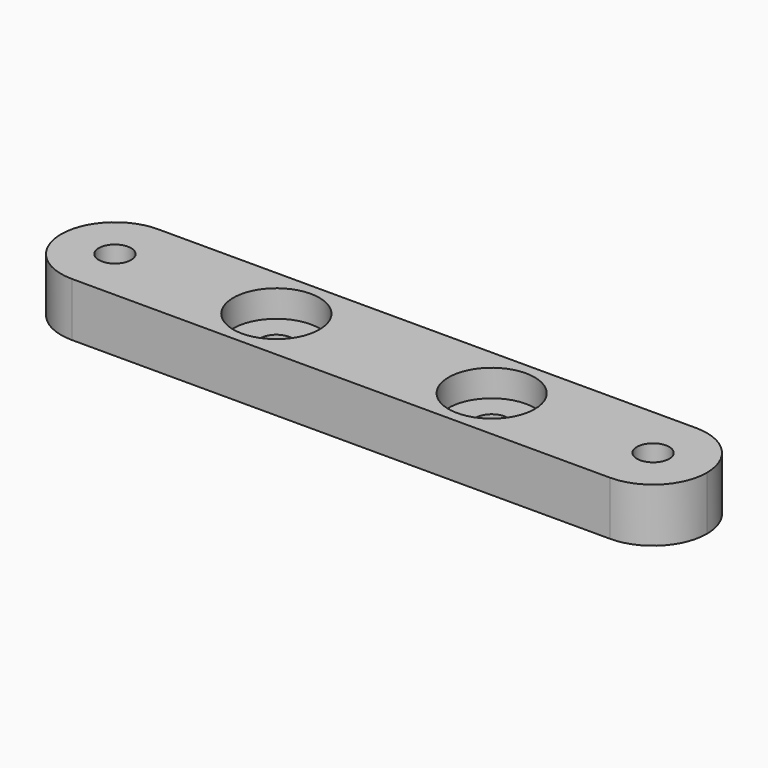
from build123d import *

# Parameters (mm, degrees)
F0_R     = 1.905
F1_DEPTH = 6.35
F2_R     = 5.08
F2_R_2   = 1.905
F3_DEPTH = 3.175


with BuildPart() as f1:
    # F0 (on Top) → F1 (new body)
    with BuildSketch(Plane.XY):
        with BuildLine():
            Line((-31.75, -6.35), (31.75, -6.35))
            ThreePointArc((31.75, -6.35), (36.240128, -4.490128), (38.1, 0))
            ThreePointArc((38.1, 0), (36.240128, 4.490128), (31.75, 6.35))
            Line((31.75, 6.35), (-31.75, 6.35))
            ThreePointArc((-31.75, 6.35), (-36.240128, 4.490128), (-38.1, 0))
            ThreePointArc((-38.1, 0), (-36.240128, -4.490128), (-31.75, -6.35))
        make_face()
        with Locations((-31.75, 0)):
            Circle(F0_R, mode=Mode.SUBTRACT)
        with Locations((-12.7, 0)):
            Circle(F0_R, mode=Mode.SUBTRACT)
        with Locations((12.7, 0)):
            Circle(F0_R, mode=Mode.SUBTRACT)
        with Locations((31.75, 0)):
            Circle(F0_R, mode=Mode.SUBTRACT)
    extrude(amount=F1_DEPTH)

    # F2 (on face) → F3 (cut)
    with BuildSketch(Plane.XY.offset(6.35)):
        with Locations((12.7, 0)):
            Circle(F2_R)
        with Locations((12.7, 0)):
            Circle(F2_R_2, mode=Mode.SUBTRACT)
        with Locations((-12.7, 0)):
            Circle(F2_R)
        with Locations((-12.7, 0)):
            Circle(F2_R_2, mode=Mode.SUBTRACT)
    extrude(amount=-F3_DEPTH, mode=Mode.SUBTRACT)


solid = f1.part
